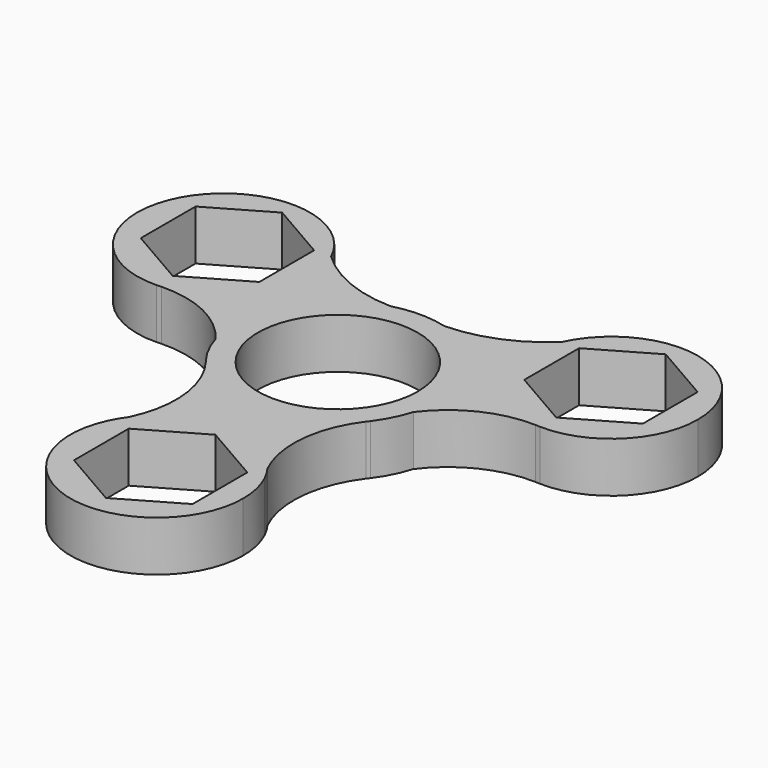
from build123d import *

# Parameters (mm, degrees)
F0_R     = 11.1353903362
F1_DEPTH = 7


with BuildPart() as f1:
    # F0 (on Top) → F1 (new body)
    with BuildSketch(Plane.XY):
        with BuildLine():
            ThreePointArc((13.7843563972, -4.0578714259), (14.2222607931, -2.0499023698), (14.3692310787, 0))
            ThreePointArc((14.3692310787, 0), (11.4075661621, 8.737404423), (3.7434382812, 13.8730483899))
            ThreePointArc((3.7434382812, 13.8730483899), (1.8636693394, 13.9343652782), (0, 14.1874020919))
            ThreePointArc((0, 14.1874020919), (-1.8636693394, 13.9343652782), (-3.7434382812, 13.8730483899))
            ThreePointArc((-3.7434382812, 13.8730483899), (-12.5373588898, 7.0206434079), (-13.7843563972, -4.0578714259))
            ThreePointArc((-13.7843563972, -4.0578714259), (-12.4320496974, -6.248418307), (-11.4810251091, -8.640651841))
            ThreePointArc((-11.4810251091, -8.640651841), (-11.3240642679, -8.8382517601), (-11.1705055248, -9.0385069626))
            ThreePointArc((-11.1705055248, -9.0385069626), (0, -14.3692310787), (11.1705055248, -9.0385069626))
            ThreePointArc((11.1705055248, -9.0385069626), (11.3240642679, -8.8382517601), (11.4810251091, -8.640651841))
            ThreePointArc((11.4810251091, -8.640651841), (12.4320496974, -6.248418307), (13.7843563972, -4.0578714259))
        make_face()
        Circle(F0_R, mode=Mode.SUBTRACT)
        with BuildLine():
            ThreePointArc((3.7434382812, 13.8730483899), (11.4075661621, 8.737404423), (14.3692310787, 0))
            ThreePointArc((14.3692310787, 0), (14.2222607931, -2.0499023698), (13.7843563972, -4.0578714259))
            ThreePointArc((13.7843563972, -4.0578714259), (19.2042942748, 0.4150594906), (26.0784950011, 1.8738953131))
            ThreePointArc((26.0784950011, 1.8738953131), (16.6265827666, 7.8104369541), (16.100626097, 18.9596315943))
            ThreePointArc((16.100626097, 18.9596315943), (10.4005227947, 15.2539097233), (3.7434382812, 13.8730483899))
        make_face()
        with BuildLine():
            ThreePointArc((0, 14.1874020919), (1.8636693394, 13.9343652782), (3.7434382812, 13.8730483899))
            ThreePointArc((3.7434382812, 13.8730483899), (0, 14.3692310787), (-3.7434382812, 13.8730483899))
            ThreePointArc((-3.7434382812, 13.8730483899), (-1.8636693394, 13.9343652782), (0, 14.1874020919))
        make_face()
        with BuildLine():
            ThreePointArc((11.4810251091, -8.640651841), (12.8388217819, -6.4528642513), (13.7843563972, -4.0578714259))
            ThreePointArc((13.7843563972, -4.0578714259), (12.4320496974, -6.248418307), (11.4810251091, -8.640651841))
        make_face()
        with BuildLine():
            ThreePointArc((-13.7843563972, -4.0578714259), (-12.5373588898, 7.0206434079), (-3.7434382812, 13.8730483899))
            ThreePointArc((-3.7434382812, 13.8730483899), (-10.4005227947, 15.2539097233), (-16.100626097, 18.9596315943))
            ThreePointArc((-16.100626097, 18.9596315943), (-15.2648392263, 16.4849997853), (-14.9818127596, 13.8884177431))
            ThreePointArc((-14.9818127596, 13.8884177431), (-18.1804232838, 5.710931791), (-26.0784950011, 1.8738953131))
            ThreePointArc((-26.0784950011, 1.8738953131), (-19.2042942748, 0.4150594906), (-13.7843563972, -4.0578714259))
        make_face()
        with BuildLine():
            ThreePointArc((39.0867749608, 13.8884177431), (29.6308759024, 25.657872377), (16.100626097, 18.9596315943))
            ThreePointArc((16.100626097, 18.9596315943), (16.6265827666, 7.8104369541), (26.0784950011, 1.8738953131))
            ThreePointArc((26.0784950011, 1.8738953131), (26.3971604303, 1.8604670593), (26.7154611922, 1.8401545318))
            ThreePointArc((26.7154611922, 1.8401545318), (35.443205085, 5.2540380496), (39.0867749608, 13.8884177431))
        make_face()
        Polygon((18.4695636854, 9.4151725896), (18.4695636854, 18.9596315943), (26.7353076488, 23.7318610966), (35.0010516122, 18.9596315943), (35.0010516122, 9.4151725896), (26.7353076488, 4.6429430873), align=None, mode=Mode.SUBTRACT)
        with BuildLine():
            ThreePointArc((11.1705055248, -9.0385069626), (11.32751218, -8.8409428006), (11.4810251091, -8.640651841))
            ThreePointArc((11.4810251091, -8.640651841), (11.3240642679, -8.8382517601), (11.1705055248, -9.0385069626))
        make_face()
        with BuildLine():
            ThreePointArc((26.7154611922, 1.8401545318), (26.3971604303, 1.8604670593), (26.0784950011, 1.8738953131))
            ThreePointArc((26.0784950011, 1.8738953131), (26.3967548476, 1.8528103763), (26.7154611922, 1.8401545318))
        make_face()
        with BuildLine():
            ThreePointArc((-11.4810251091, -8.640651841), (-12.4320496974, -6.248418307), (-13.7843563972, -4.0578714259))
            ThreePointArc((-13.7843563972, -4.0578714259), (-12.8388217819, -6.4528642513), (-11.4810251091, -8.640651841))
        make_face()
        with BuildLine():
            ThreePointArc((-14.9818127596, 13.8884177431), (-15.2648392263, 16.4849997853), (-16.100626097, 18.9596315943))
            ThreePointArc((-16.100626097, 18.9596315943), (-37.2775265146, 20.2396763167), (-26.7154611922, 1.8401545318))
            ThreePointArc((-26.7154611922, 1.8401545318), (-26.3971604303, 1.8604670593), (-26.0784950011, 1.8738953131))
            ThreePointArc((-26.0784950011, 1.8738953131), (-18.1804232838, 5.710931791), (-14.9818127596, 13.8884177431))
        make_face()
        Polygon((-26.7353076488, 23.7318610966), (-18.4695636854, 18.9596315943), (-18.4695636854, 9.4151725896), (-26.7353076488, 4.6429430873), (-35.0010516122, 9.4151725896), (-35.0010516122, 18.9596315943), align=None, mode=Mode.SUBTRACT)
        with BuildLine():
            ThreePointArc((9.6881919833, -24.3743406102), (8.2688867083, -16.4976003067), (11.1705055248, -9.0385069626))
            ThreePointArc((11.1705055248, -9.0385069626), (0, -14.3692310787), (-11.1705055248, -9.0385069626))
            ThreePointArc((-11.1705055248, -9.0385069626), (-8.2688867083, -16.4976003067), (-9.6881919833, -24.3743406102))
            ThreePointArc((-9.6881919833, -24.3743406102), (0, -19.4913250947), (9.6881919833, -24.3743406102))
        make_face()
        with BuildLine():
            ThreePointArc((-11.1705055248, -9.0385069626), (-11.3240642679, -8.8382517601), (-11.4810251091, -8.640651841))
            ThreePointArc((-11.4810251091, -8.640651841), (-11.32751218, -8.8409428006), (-11.1705055248, -9.0385069626))
        make_face()
        with BuildLine():
            ThreePointArc((-26.7154611922, 1.8401545318), (-26.3967548476, 1.8528103763), (-26.0784950011, 1.8738953131))
            ThreePointArc((-26.0784950011, 1.8738953131), (-26.3971604303, 1.8604670593), (-26.7154611922, 1.8401545318))
        make_face()
        with BuildLine():
            ThreePointArc((10.9336677632, -26.4725923442), (10.2674850969, -25.4492543347), (9.6881919833, -24.3743406102))
            ThreePointArc((9.6881919833, -24.3743406102), (0, -19.4913250947), (-9.6881919833, -24.3743406102))
            ThreePointArc((-9.6881919833, -24.3743406102), (-10.2674850969, -25.4492543347), (-10.9336677632, -26.4725923442))
            ThreePointArc((-10.9336677632, -26.4725923442), (-2.5965820422, -43.3132608291), (12.0524811006, -31.5438061953))
            ThreePointArc((12.0524811006, -31.5438061953), (11.7694546339, -28.9472241531), (10.9336677632, -26.4725923442))
        make_face()
        Polygon((0.2989862114, -21.7003628418), (8.5647301748, -26.4725923442), (8.5647301748, -36.0170513488), (0.2989862114, -40.7892808512), (-7.966757752, -36.0170513488), (-7.966757752, -26.4725923442), align=None, mode=Mode.SUBTRACT)
        with BuildLine():
            ThreePointArc((10.9336677632, -26.4725923442), (10.3641661476, -25.3918666032), (9.6881919833, -24.3743406102))
            ThreePointArc((9.6881919833, -24.3743406102), (10.2674850969, -25.4492543347), (10.9336677632, -26.4725923442))
        make_face()
        with BuildLine():
            ThreePointArc((-10.9336677632, -26.4725923442), (-10.2674850969, -25.4492543347), (-9.6881919833, -24.3743406102))
            ThreePointArc((-9.6881919833, -24.3743406102), (-10.3641661476, -25.3918666032), (-10.9336677632, -26.4725923442))
        make_face()
    extrude(amount=F1_DEPTH)


solid = f1.part
